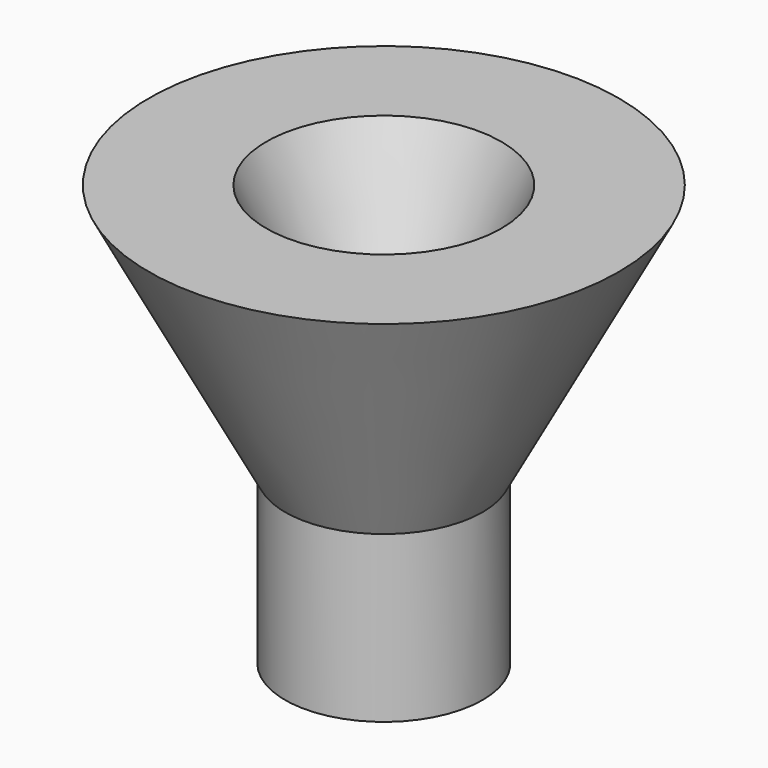
from build123d import *

# Parameters (mm, degrees)
F2_DEPTH = 50.8
F3_DEPTH = 50.8


with BuildPart() as f1:
    # F0 (on Front) → F1 (revolve)
    with BuildSketch(Plane.XZ):
        Polygon((27.0071681589, 56.6442497075), (4.1471673176, 6.4736288041), (4.1471673176, -25.28761141), (23.3657527715, -25.28761141), (23.3657527715, 6.8782302551), (49.8671717942, 56.6442497075), align=None)
    revolve(axis=Axis((4.1471673176, 0, -9.406991303), (0, 0, -1)))

    # F2 (cut): a face of the model
    f2_faces = [f1.faces().sort_by_distance(p)[0] for p in [
        (4.1471673176, 0, -25.28761141),
    ]]
    extrude(f2_faces, amount=-F2_DEPTH, mode=Mode.SUBTRACT)

    # F3 (add): a face of the model
    f3_faces = [f1.faces().sort_by_distance(p)[0] for p in [
        (-14.5278344524, 0, 25.51238859),
    ]]
    extrude(f3_faces, amount=F3_DEPTH)


solid = f1.part
